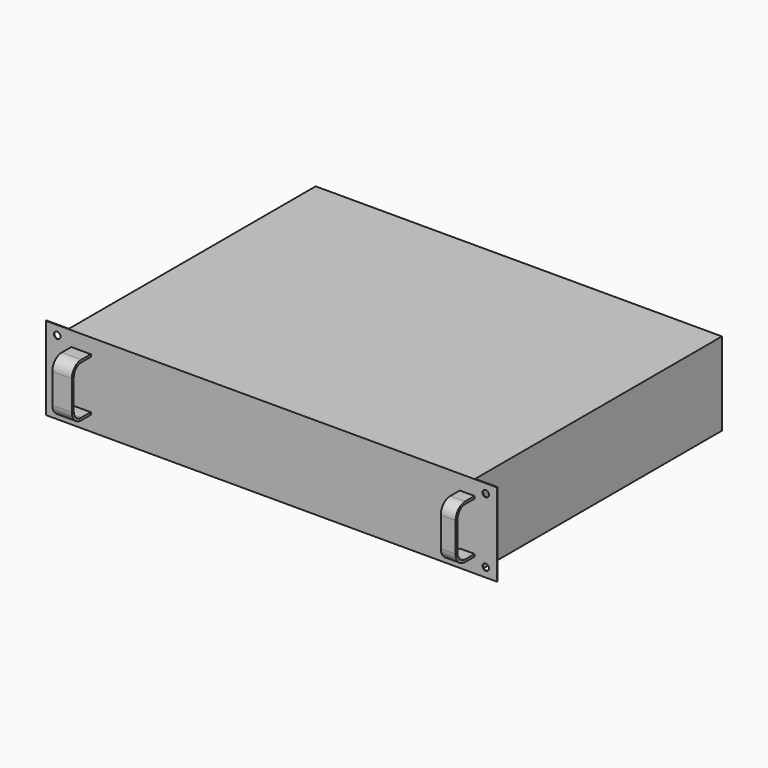
from build123d import *

# Parameters (mm, degrees)
F0_W     = 434.975
F0_H     = 330.2
F1_DEPTH = 44.45
F2_R     = 3.4925
F3_DEPTH = 0.762
F5_DEPTH = 431.8
F6_W     = 395.026488
F6_H     = 25.4
F7_DEPTH = 88.901


with BuildPart() as f1:
    # F0 (on Top) → F1 (new body, symmetric)
    with BuildSketch(Plane.XY):
        Rectangle(F0_W, F0_H)
    extrude(amount=F1_DEPTH, both=True)

    # F2 (on face) → F3 (join)
    with BuildSketch(Plane.XZ.offset(165.1)):
        Polygon((-241.3, 44.45), (-241.3, -44.45), (-217.4875, -44.45), (241.3, -44.45), (241.3, 44.45), align=None)
        with Locations((-229.39375, -34.6075)):
            Circle(F2_R, mode=Mode.SUBTRACT)
        with Locations((229.39375, -34.6075)):
            Circle(F2_R, mode=Mode.SUBTRACT)
        with Locations((-229.39375, 34.6075)):
            Circle(F2_R, mode=Mode.SUBTRACT)
        with Locations((229.39375, 34.6075)):
            Circle(F2_R, mode=Mode.SUBTRACT)
    extrude(amount=F3_DEPTH)

    # F4 (on face) → F5 (join)
    with BuildSketch(Plane.YZ.offset(217.4875)):
        with BuildLine():
            Line((-191.262, 15.875), (-191.262, 0))
            Line((-191.262, 0), (-191.262, -15.875))
            ThreePointArc((-191.262, -15.875), (-187.542256, -24.855256), (-178.562, -28.575))
            Line((-178.562, -28.575), (-165.862, -28.575))
            Line((-165.862, -28.575), (-165.862, -26.035))
            Line((-165.862, -26.035), (-178.562, -26.035))
            ThreePointArc((-178.562, -26.035), (-185.746205, -23.059205), (-188.722, -15.875))
            Line((-188.722, -15.875), (-188.722, 0))
            Line((-188.722, 0), (-188.722, 15.875))
            ThreePointArc((-188.722, 15.875), (-185.746205, 23.059205), (-178.562, 26.035))
            Line((-178.562, 26.035), (-165.862, 26.035))
            Line((-165.862, 26.035), (-165.862, 28.575))
            Line((-165.862, 28.575), (-178.562, 28.575))
            ThreePointArc((-178.562, 28.575), (-187.542256, 24.855256), (-191.262, 15.875))
        make_face()
    extrude(amount=-F5_DEPTH)

    # F6 (on face) → F7 (cut, through all)
    with BuildSketch(Plane.XY.offset(44.45)):
        with Locations((4.099256, -178.562)):
            Rectangle(F6_W, F6_H)
    extrude(amount=-F7_DEPTH, mode=Mode.SUBTRACT)


solid = f1.part
